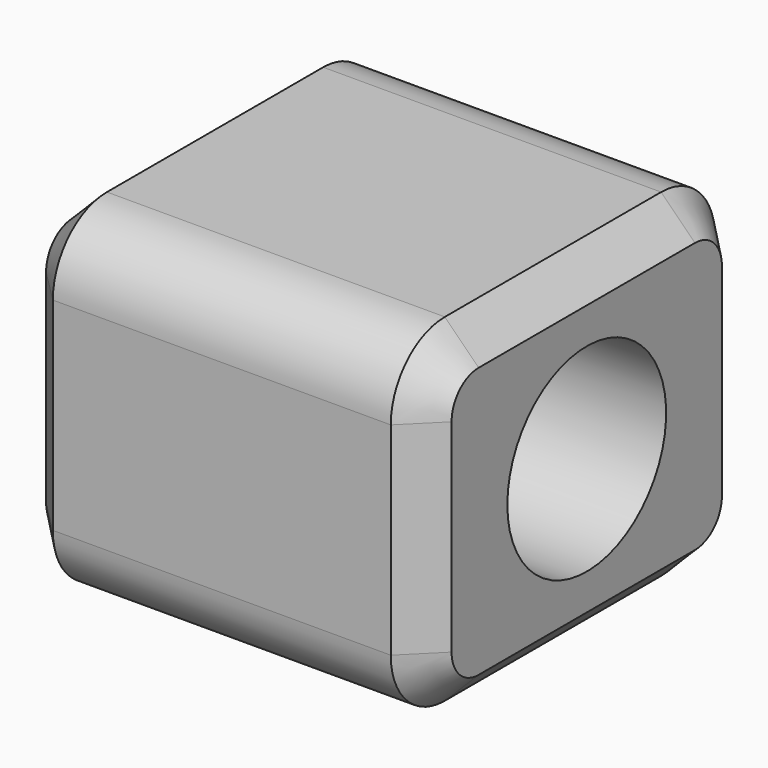
from build123d import *

# Parameters (mm, degrees)
F0_W          = 60
F0_H          = 60
F1_DEPTH      = 25
F1_DEPTH_BACK = 25
F3_R          = 14.685213
F4_DEPTH      = 60.001
F5_R          = 10
F6_SIZE2      = 5
F6_SIZE       = 5


with BuildPart() as f1:
    # F0 (on Top) → F1 (new body, two sides)
    with BuildSketch(Plane.XY) as f1_sk:
        Rectangle(F0_W, F0_H)
    extrude(amount=F1_DEPTH)
    extrude(f1_sk.sketch, amount=-F1_DEPTH_BACK)

    # F3 (on offset) → F4 (cut, through all)
    with BuildSketch(Plane(origin=(-30, 0, 0), x_dir=(0, -1, 0), z_dir=(-1, 0, 0))):
        Circle(F3_R)
    extrude(amount=-F4_DEPTH, mode=Mode.SUBTRACT)

    # F5
    f5_edges = [f1.edges().sort_by_distance(p)[0] for p in [
        (0, 30, -25),
        (0, 30, 25),
        (0, -30, 25),
        (0, -30, -25),
    ]]
    fillet(f5_edges, radius=F5_R)

    # F6
    f6_edges = [f1.edges().sort_by_distance(p)[0] for p in [
        (30, 30, 0),
        (-30, 30, 0),
    ]]
    chamfer(f6_edges, length=F6_SIZE, length2=F6_SIZE2)


solid = f1.part
